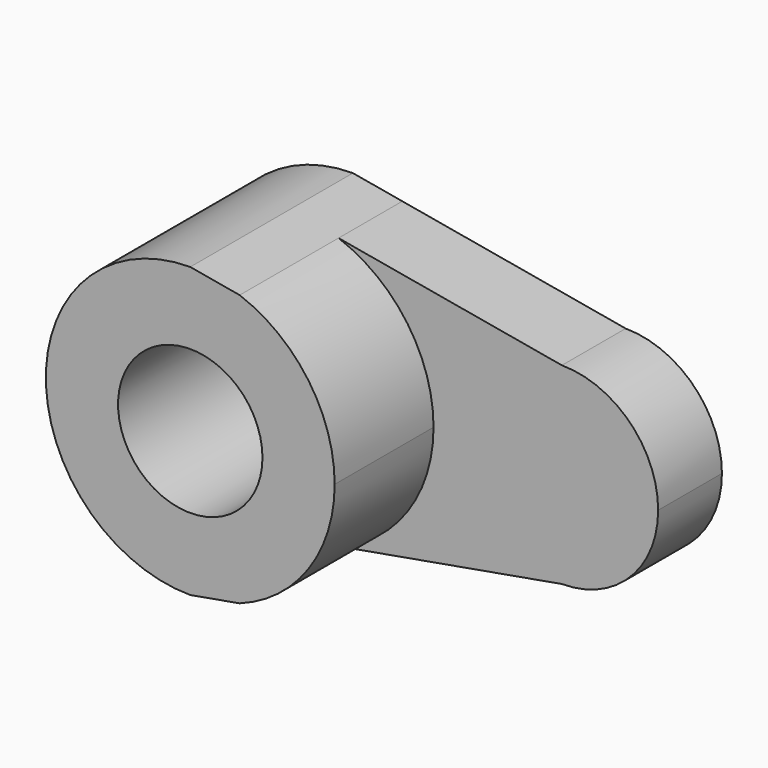
from build123d import *

# Parameters (mm, degrees)
F0_R     = 14.2875
F1_DEPTH = 40.2336
F2_DEPTH = 15.7734


with BuildPart() as f1:
    # F0 (on Front) → F1 (new body)
    with BuildSketch(Plane.XZ):
        with BuildLine():
            ThreePointArc((-44.194295302, -26.8489932886), (-30.5654478712, -16.3866864902), (-25.4, 0))
            ThreePointArc((-25.4, 0), (-30.5654478712, 16.3866864902), (-44.194295302, 26.8489932886))
            Line((-44.194295302, 26.8489932886), (-53.975, 28.575))
            ThreePointArc((-53.975, 28.575), (-82.55, 0), (-53.975, -28.575))
            Line((-53.975, -28.575), (-44.194295302, -26.8489932886))
        make_face()
        with Locations((-53.975, 0)):
            Circle(F0_R, mode=Mode.SUBTRACT)
    extrude(amount=F1_DEPTH)

    # F0 (on Front) → F2 (join)
    with BuildSketch(Plane.XZ):
        with BuildLine():
            ThreePointArc((0, 19.05), (-13.4703841816, 13.4703841816), (-19.05, 0))
            ThreePointArc((-19.05, 0), (-13.4703841816, -13.4703841816), (0, -19.05))
            ThreePointArc((0, -19.05), (13.4703841816, -13.4703841816), (19.05, 0))
            ThreePointArc((19.05, 0), (13.4703841816, 13.4703841816), (0, 19.05))
        make_face()
        with BuildLine():
            ThreePointArc((-10.16, 0), (0, 10.16), (10.16, 0))
            ThreePointArc((10.16, 0), (0, -10.16), (-10.16, 0))
        make_face(mode=Mode.SUBTRACT)
        with BuildLine():
            Line((-25.4, 0), (-19.05, 0))
            ThreePointArc((-19.05, 0), (-13.4703841816, 13.4703841816), (0, 19.05))
            Line((0, 19.05), (-44.194295302, 26.8489932886))
            ThreePointArc((-44.194295302, 26.8489932886), (-30.5654478712, 16.3866864902), (-25.4, 0))
        make_face()
        with BuildLine():
            ThreePointArc((0, -19.05), (-13.4703841816, -13.4703841816), (-19.05, 0))
            Line((-19.05, 0), (-25.4, 0))
            ThreePointArc((-25.4, 0), (-30.5654478712, -16.3866864902), (-44.194295302, -26.8489932886))
            Line((-44.194295302, -26.8489932886), (0, -19.05))
        make_face()
        with BuildLine():
            ThreePointArc((-10.16, 0), (0, -10.16), (10.16, 0))
            ThreePointArc((10.16, 0), (0, 10.16), (-10.16, 0))
        make_face()
    extrude(amount=F2_DEPTH)


solid = f1.part
